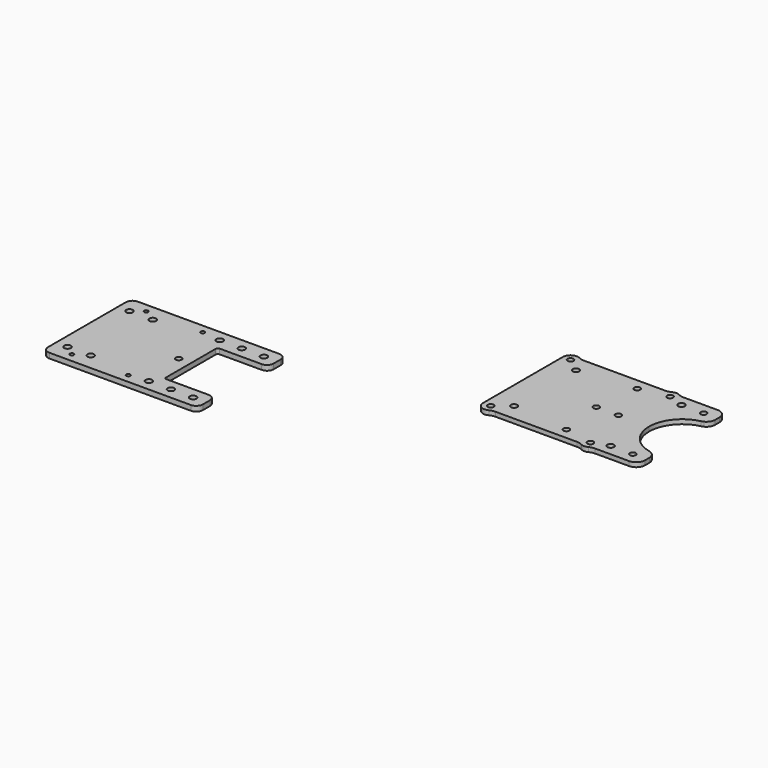
from build123d import *

# Parameters (mm, degrees)
F0_R     = 0.9
F0_R_2   = 1.5
F0_R_3   = 1.35
F1_DEPTH = 2.3
F2_R     = 1.35
F2_R_2   = 1.45
F2_R_3   = 1.5
F3_DEPTH = 2


with BuildPart() as f1:
    # F0 (on Top) → F1 (new body)
    with BuildSketch(Plane.XY):
        with BuildLine():
            ThreePointArc((-153.8714951198, 97.2304750681), (-154.7501747763, 99.3517954117), (-156.8714951198, 100.2304750681))
            Line((-156.8714951198, 100.2304750681), (-220.8714951198, 100.2304750681))
            ThreePointArc((-220.8714951198, 100.2304750681), (-222.9928154634, 99.3517954117), (-223.8714951198, 97.2304750681))
            Line((-223.8714951198, 97.2304750681), (-223.8714951198, 53.2304750681))
            ThreePointArc((-223.8714951198, 53.2304750681), (-222.9928154634, 51.1091547245), (-220.8714951198, 50.2304750681))
            Line((-220.8714951198, 50.2304750681), (-156.8714951198, 50.2304750681))
            ThreePointArc((-156.8714951198, 50.2304750681), (-154.7501747763, 51.1091547245), (-153.8714951198, 53.2304750681))
            Line((-153.8714951198, 53.2304750681), (-153.8714951198, 57.2304750681))
            ThreePointArc((-153.8714951198, 57.2304750681), (-154.7501747763, 59.3517954117), (-156.8714951198, 60.2304750681))
            Line((-156.8714951198, 60.2304750681), (-175.8714951198, 60.2304750681))
            ThreePointArc((-175.8714951198, 60.2304750681), (-176.578601901, 60.5233682869), (-176.8714951198, 61.2304750681))
            Line((-176.8714951198, 61.2304750681), (-176.8714951198, 75.2304750681))
            Line((-176.8714951198, 75.2304750681), (-176.8714951198, 89.2304750681))
            ThreePointArc((-176.8714951198, 89.2304750681), (-176.578601901, 89.9375818493), (-175.8714951198, 90.2304750681))
            Line((-175.8714951198, 90.2304750681), (-156.8714951198, 90.2304750681))
            ThreePointArc((-156.8714951198, 90.2304750681), (-154.7501747763, 91.1091547245), (-153.8714951198, 93.2304750681))
            Line((-153.8714951198, 93.2304750681), (-153.8714951198, 97.2304750681))
        make_face()
        with Locations((-213.8714951198, 54.2304750681)):
            Circle(F0_R, mode=Mode.SUBTRACT)
        with Locations((-221.3714951198, 61.9804750681)):
            Circle(F0_R, mode=Mode.SUBTRACT)
        with Locations((-218.6214951198, 57.7304750681)):
            Circle(F0_R_2, mode=Mode.SUBTRACT)
        with Locations((-208.1214951198, 57.7304750681)):
            Circle(F0_R_2, mode=Mode.SUBTRACT)
        with Locations((-188.3714951198, 54.2304750681)):
            Circle(F0_R, mode=Mode.SUBTRACT)
        with Locations((-179.8714951198, 55.2304750681)):
            Circle(F0_R_2, mode=Mode.SUBTRACT)
        with Locations((-179.3714951198, 61.9804750681)):
            Circle(F0_R, mode=Mode.SUBTRACT)
        with Locations((-169.8714951198, 55.2304750681)):
            Circle(F0_R_2, mode=Mode.SUBTRACT)
        with Locations((-159.8714951198, 55.2304750681)):
            Circle(F0_R_2, mode=Mode.SUBTRACT)
        with Locations((-220.5214951198, 75.2304750681)):
            Circle(F0_R_3, mode=Mode.SUBTRACT)
        with Locations((-221.3714951198, 87.4804750681)):
            Circle(F0_R, mode=Mode.SUBTRACT)
        with Locations((-218.6214951198, 92.7304750681)):
            Circle(F0_R_2, mode=Mode.SUBTRACT)
        with Locations((-213.8714951198, 96.2304750681)):
            Circle(F0_R, mode=Mode.SUBTRACT)
        with Locations((-208.1214951198, 92.7304750681)):
            Circle(F0_R_2, mode=Mode.SUBTRACT)
        with Locations((-182.3714951198, 75.2304750681)):
            Circle(F0_R_3, mode=Mode.SUBTRACT)
        with Locations((-179.3714951198, 87.4804750681)):
            Circle(F0_R, mode=Mode.SUBTRACT)
        with Locations((-188.3714951198, 96.2304750681)):
            Circle(F0_R, mode=Mode.SUBTRACT)
        with Locations((-179.8714951198, 95.2304750681)):
            Circle(F0_R_2, mode=Mode.SUBTRACT)
        with Locations((-169.8714951198, 95.2304750681)):
            Circle(F0_R_2, mode=Mode.SUBTRACT)
        with Locations((-159.8714951198, 95.2304750681)):
            Circle(F0_R_2, mode=Mode.SUBTRACT)
        with BuildLine():
            ThreePointArc((-153.8714951198, 97.2304750681), (-154.7501747763, 99.3517954117), (-156.8714951198, 100.2304750681))
            Line((-156.8714951198, 100.2304750681), (-220.8714951198, 100.2304750681))
            ThreePointArc((-220.8714951198, 100.2304750681), (-222.9928154634, 99.3517954117), (-223.8714951198, 97.2304750681))
            Line((-223.8714951198, 97.2304750681), (-223.8714951198, 53.2304750681))
            ThreePointArc((-223.8714951198, 53.2304750681), (-222.9928154634, 51.1091547245), (-220.8714951198, 50.2304750681))
            Line((-220.8714951198, 50.2304750681), (-156.8714951198, 50.2304750681))
            ThreePointArc((-156.8714951198, 50.2304750681), (-154.7501747763, 51.1091547245), (-153.8714951198, 53.2304750681))
            Line((-153.8714951198, 53.2304750681), (-153.8714951198, 57.2304750681))
            ThreePointArc((-153.8714951198, 57.2304750681), (-154.7501747763, 59.3517954117), (-156.8714951198, 60.2304750681))
            Line((-156.8714951198, 60.2304750681), (-175.8714951198, 60.2304750681))
            ThreePointArc((-175.8714951198, 60.2304750681), (-176.578601901, 60.5233682869), (-176.8714951198, 61.2304750681))
            Line((-176.8714951198, 61.2304750681), (-176.8714951198, 75.2304750681))
            Line((-176.8714951198, 75.2304750681), (-176.8714951198, 89.2304750681))
            ThreePointArc((-176.8714951198, 89.2304750681), (-176.578601901, 89.9375818493), (-175.8714951198, 90.2304750681))
            Line((-175.8714951198, 90.2304750681), (-156.8714951198, 90.2304750681))
            ThreePointArc((-156.8714951198, 90.2304750681), (-154.7501747763, 91.1091547245), (-153.8714951198, 93.2304750681))
            Line((-153.8714951198, 93.2304750681), (-153.8714951198, 97.2304750681))
        make_face()
        with Locations((-213.8714951198, 54.2304750681)):
            Circle(F0_R, mode=Mode.SUBTRACT)
        with Locations((-221.3714951198, 61.9804750681)):
            Circle(F0_R, mode=Mode.SUBTRACT)
        with Locations((-218.6214951198, 57.7304750681)):
            Circle(F0_R_2, mode=Mode.SUBTRACT)
        with Locations((-208.1214951198, 57.7304750681)):
            Circle(F0_R_2, mode=Mode.SUBTRACT)
        with Locations((-188.3714951198, 54.2304750681)):
            Circle(F0_R, mode=Mode.SUBTRACT)
        with Locations((-179.8714951198, 55.2304750681)):
            Circle(F0_R_2, mode=Mode.SUBTRACT)
        with Locations((-179.3714951198, 61.9804750681)):
            Circle(F0_R, mode=Mode.SUBTRACT)
        with Locations((-169.8714951198, 55.2304750681)):
            Circle(F0_R_2, mode=Mode.SUBTRACT)
        with Locations((-159.8714951198, 55.2304750681)):
            Circle(F0_R_2, mode=Mode.SUBTRACT)
        with Locations((-220.5214951198, 75.2304750681)):
            Circle(F0_R_3, mode=Mode.SUBTRACT)
        with Locations((-221.3714951198, 87.4804750681)):
            Circle(F0_R, mode=Mode.SUBTRACT)
        with Locations((-218.6214951198, 92.7304750681)):
            Circle(F0_R_2, mode=Mode.SUBTRACT)
        with Locations((-213.8714951198, 96.2304750681)):
            Circle(F0_R, mode=Mode.SUBTRACT)
        with Locations((-208.1214951198, 92.7304750681)):
            Circle(F0_R_2, mode=Mode.SUBTRACT)
        with Locations((-182.3714951198, 75.2304750681)):
            Circle(F0_R_3, mode=Mode.SUBTRACT)
        with Locations((-179.3714951198, 87.4804750681)):
            Circle(F0_R, mode=Mode.SUBTRACT)
        with Locations((-188.3714951198, 96.2304750681)):
            Circle(F0_R, mode=Mode.SUBTRACT)
        with Locations((-179.8714951198, 95.2304750681)):
            Circle(F0_R_2, mode=Mode.SUBTRACT)
        with Locations((-169.8714951198, 95.2304750681)):
            Circle(F0_R_2, mode=Mode.SUBTRACT)
        with Locations((-159.8714951198, 95.2304750681)):
            Circle(F0_R_2, mode=Mode.SUBTRACT)
        with BuildLine():
            ThreePointArc((-153.8714951198, 97.2304750681), (-154.7501747763, 99.3517954117), (-156.8714951198, 100.2304750681))
            Line((-156.8714951198, 100.2304750681), (-220.8714951198, 100.2304750681))
            ThreePointArc((-220.8714951198, 100.2304750681), (-222.9928154634, 99.3517954117), (-223.8714951198, 97.2304750681))
            Line((-223.8714951198, 97.2304750681), (-223.8714951198, 53.2304750681))
            ThreePointArc((-223.8714951198, 53.2304750681), (-222.9928154634, 51.1091547245), (-220.8714951198, 50.2304750681))
            Line((-220.8714951198, 50.2304750681), (-156.8714951198, 50.2304750681))
            ThreePointArc((-156.8714951198, 50.2304750681), (-154.7501747763, 51.1091547245), (-153.8714951198, 53.2304750681))
            Line((-153.8714951198, 53.2304750681), (-153.8714951198, 57.2304750681))
            ThreePointArc((-153.8714951198, 57.2304750681), (-154.7501747763, 59.3517954117), (-156.8714951198, 60.2304750681))
            Line((-156.8714951198, 60.2304750681), (-175.8714951198, 60.2304750681))
            ThreePointArc((-175.8714951198, 60.2304750681), (-176.578601901, 60.5233682869), (-176.8714951198, 61.2304750681))
            Line((-176.8714951198, 61.2304750681), (-176.8714951198, 75.2304750681))
            Line((-176.8714951198, 75.2304750681), (-176.8714951198, 89.2304750681))
            ThreePointArc((-176.8714951198, 89.2304750681), (-176.578601901, 89.9375818493), (-175.8714951198, 90.2304750681))
            Line((-175.8714951198, 90.2304750681), (-156.8714951198, 90.2304750681))
            ThreePointArc((-156.8714951198, 90.2304750681), (-154.7501747763, 91.1091547245), (-153.8714951198, 93.2304750681))
            Line((-153.8714951198, 93.2304750681), (-153.8714951198, 97.2304750681))
        make_face()
        with Locations((-213.8714951198, 54.2304750681)):
            Circle(F0_R, mode=Mode.SUBTRACT)
        with Locations((-221.3714951198, 61.9804750681)):
            Circle(F0_R, mode=Mode.SUBTRACT)
        with Locations((-218.6214951198, 57.7304750681)):
            Circle(F0_R_2, mode=Mode.SUBTRACT)
        with Locations((-208.1214951198, 57.7304750681)):
            Circle(F0_R_2, mode=Mode.SUBTRACT)
        with Locations((-188.3714951198, 54.2304750681)):
            Circle(F0_R, mode=Mode.SUBTRACT)
        with Locations((-179.8714951198, 55.2304750681)):
            Circle(F0_R_2, mode=Mode.SUBTRACT)
        with Locations((-179.3714951198, 61.9804750681)):
            Circle(F0_R, mode=Mode.SUBTRACT)
        with Locations((-169.8714951198, 55.2304750681)):
            Circle(F0_R_2, mode=Mode.SUBTRACT)
        with Locations((-159.8714951198, 55.2304750681)):
            Circle(F0_R_2, mode=Mode.SUBTRACT)
        with Locations((-220.5214951198, 75.2304750681)):
            Circle(F0_R_3, mode=Mode.SUBTRACT)
        with Locations((-221.3714951198, 87.4804750681)):
            Circle(F0_R, mode=Mode.SUBTRACT)
        with Locations((-218.6214951198, 92.7304750681)):
            Circle(F0_R_2, mode=Mode.SUBTRACT)
        with Locations((-213.8714951198, 96.2304750681)):
            Circle(F0_R, mode=Mode.SUBTRACT)
        with Locations((-208.1214951198, 92.7304750681)):
            Circle(F0_R_2, mode=Mode.SUBTRACT)
        with Locations((-182.3714951198, 75.2304750681)):
            Circle(F0_R_3, mode=Mode.SUBTRACT)
        with Locations((-179.3714951198, 87.4804750681)):
            Circle(F0_R, mode=Mode.SUBTRACT)
        with Locations((-188.3714951198, 96.2304750681)):
            Circle(F0_R, mode=Mode.SUBTRACT)
        with Locations((-179.8714951198, 95.2304750681)):
            Circle(F0_R_2, mode=Mode.SUBTRACT)
        with Locations((-169.8714951198, 95.2304750681)):
            Circle(F0_R_2, mode=Mode.SUBTRACT)
        with Locations((-159.8714951198, 95.2304750681)):
            Circle(F0_R_2, mode=Mode.SUBTRACT)
        with BuildLine():
            ThreePointArc((-153.8714951198, 97.2304750681), (-154.7501747763, 99.3517954117), (-156.8714951198, 100.2304750681))
            Line((-156.8714951198, 100.2304750681), (-220.8714951198, 100.2304750681))
            ThreePointArc((-220.8714951198, 100.2304750681), (-222.9928154634, 99.3517954117), (-223.8714951198, 97.2304750681))
            Line((-223.8714951198, 97.2304750681), (-223.8714951198, 53.2304750681))
            ThreePointArc((-223.8714951198, 53.2304750681), (-222.9928154634, 51.1091547245), (-220.8714951198, 50.2304750681))
            Line((-220.8714951198, 50.2304750681), (-156.8714951198, 50.2304750681))
            ThreePointArc((-156.8714951198, 50.2304750681), (-154.7501747763, 51.1091547245), (-153.8714951198, 53.2304750681))
            Line((-153.8714951198, 53.2304750681), (-153.8714951198, 57.2304750681))
            ThreePointArc((-153.8714951198, 57.2304750681), (-154.7501747763, 59.3517954117), (-156.8714951198, 60.2304750681))
            Line((-156.8714951198, 60.2304750681), (-175.8714951198, 60.2304750681))
            ThreePointArc((-175.8714951198, 60.2304750681), (-176.578601901, 60.5233682869), (-176.8714951198, 61.2304750681))
            Line((-176.8714951198, 61.2304750681), (-176.8714951198, 75.2304750681))
            Line((-176.8714951198, 75.2304750681), (-176.8714951198, 89.2304750681))
            ThreePointArc((-176.8714951198, 89.2304750681), (-176.578601901, 89.9375818493), (-175.8714951198, 90.2304750681))
            Line((-175.8714951198, 90.2304750681), (-156.8714951198, 90.2304750681))
            ThreePointArc((-156.8714951198, 90.2304750681), (-154.7501747763, 91.1091547245), (-153.8714951198, 93.2304750681))
            Line((-153.8714951198, 93.2304750681), (-153.8714951198, 97.2304750681))
        make_face()
        with Locations((-213.8714951198, 54.2304750681)):
            Circle(F0_R, mode=Mode.SUBTRACT)
        with Locations((-221.3714951198, 61.9804750681)):
            Circle(F0_R, mode=Mode.SUBTRACT)
        with Locations((-218.6214951198, 57.7304750681)):
            Circle(F0_R_2, mode=Mode.SUBTRACT)
        with Locations((-208.1214951198, 57.7304750681)):
            Circle(F0_R_2, mode=Mode.SUBTRACT)
        with Locations((-188.3714951198, 54.2304750681)):
            Circle(F0_R, mode=Mode.SUBTRACT)
        with Locations((-179.8714951198, 55.2304750681)):
            Circle(F0_R_2, mode=Mode.SUBTRACT)
        with Locations((-179.3714951198, 61.9804750681)):
            Circle(F0_R, mode=Mode.SUBTRACT)
        with Locations((-169.8714951198, 55.2304750681)):
            Circle(F0_R_2, mode=Mode.SUBTRACT)
        with Locations((-159.8714951198, 55.2304750681)):
            Circle(F0_R_2, mode=Mode.SUBTRACT)
        with Locations((-220.5214951198, 75.2304750681)):
            Circle(F0_R_3, mode=Mode.SUBTRACT)
        with Locations((-221.3714951198, 87.4804750681)):
            Circle(F0_R, mode=Mode.SUBTRACT)
        with Locations((-218.6214951198, 92.7304750681)):
            Circle(F0_R_2, mode=Mode.SUBTRACT)
        with Locations((-213.8714951198, 96.2304750681)):
            Circle(F0_R, mode=Mode.SUBTRACT)
        with Locations((-208.1214951198, 92.7304750681)):
            Circle(F0_R_2, mode=Mode.SUBTRACT)
        with Locations((-182.3714951198, 75.2304750681)):
            Circle(F0_R_3, mode=Mode.SUBTRACT)
        with Locations((-179.3714951198, 87.4804750681)):
            Circle(F0_R, mode=Mode.SUBTRACT)
        with Locations((-188.3714951198, 96.2304750681)):
            Circle(F0_R, mode=Mode.SUBTRACT)
        with Locations((-179.8714951198, 95.2304750681)):
            Circle(F0_R_2, mode=Mode.SUBTRACT)
        with Locations((-169.8714951198, 95.2304750681)):
            Circle(F0_R_2, mode=Mode.SUBTRACT)
        with Locations((-159.8714951198, 95.2304750681)):
            Circle(F0_R_2, mode=Mode.SUBTRACT)
        with BuildLine():
            ThreePointArc((-153.8714951198, 97.2304750681), (-154.7501747763, 99.3517954117), (-156.8714951198, 100.2304750681))
            Line((-156.8714951198, 100.2304750681), (-220.8714951198, 100.2304750681))
            ThreePointArc((-220.8714951198, 100.2304750681), (-222.9928154634, 99.3517954117), (-223.8714951198, 97.2304750681))
            Line((-223.8714951198, 97.2304750681), (-223.8714951198, 53.2304750681))
            ThreePointArc((-223.8714951198, 53.2304750681), (-222.9928154634, 51.1091547245), (-220.8714951198, 50.2304750681))
            Line((-220.8714951198, 50.2304750681), (-156.8714951198, 50.2304750681))
            ThreePointArc((-156.8714951198, 50.2304750681), (-154.7501747763, 51.1091547245), (-153.8714951198, 53.2304750681))
            Line((-153.8714951198, 53.2304750681), (-153.8714951198, 57.2304750681))
            ThreePointArc((-153.8714951198, 57.2304750681), (-154.7501747763, 59.3517954117), (-156.8714951198, 60.2304750681))
            Line((-156.8714951198, 60.2304750681), (-175.8714951198, 60.2304750681))
            ThreePointArc((-175.8714951198, 60.2304750681), (-176.578601901, 60.5233682869), (-176.8714951198, 61.2304750681))
            Line((-176.8714951198, 61.2304750681), (-176.8714951198, 75.2304750681))
            Line((-176.8714951198, 75.2304750681), (-176.8714951198, 89.2304750681))
            ThreePointArc((-176.8714951198, 89.2304750681), (-176.578601901, 89.9375818493), (-175.8714951198, 90.2304750681))
            Line((-175.8714951198, 90.2304750681), (-156.8714951198, 90.2304750681))
            ThreePointArc((-156.8714951198, 90.2304750681), (-154.7501747763, 91.1091547245), (-153.8714951198, 93.2304750681))
            Line((-153.8714951198, 93.2304750681), (-153.8714951198, 97.2304750681))
        make_face()
        with Locations((-213.8714951198, 54.2304750681)):
            Circle(F0_R, mode=Mode.SUBTRACT)
        with Locations((-221.3714951198, 61.9804750681)):
            Circle(F0_R, mode=Mode.SUBTRACT)
        with Locations((-218.6214951198, 57.7304750681)):
            Circle(F0_R_2, mode=Mode.SUBTRACT)
        with Locations((-208.1214951198, 57.7304750681)):
            Circle(F0_R_2, mode=Mode.SUBTRACT)
        with Locations((-188.3714951198, 54.2304750681)):
            Circle(F0_R, mode=Mode.SUBTRACT)
        with Locations((-179.8714951198, 55.2304750681)):
            Circle(F0_R_2, mode=Mode.SUBTRACT)
        with Locations((-179.3714951198, 61.9804750681)):
            Circle(F0_R, mode=Mode.SUBTRACT)
        with Locations((-169.8714951198, 55.2304750681)):
            Circle(F0_R_2, mode=Mode.SUBTRACT)
        with Locations((-159.8714951198, 55.2304750681)):
            Circle(F0_R_2, mode=Mode.SUBTRACT)
        with Locations((-220.5214951198, 75.2304750681)):
            Circle(F0_R_3, mode=Mode.SUBTRACT)
        with Locations((-221.3714951198, 87.4804750681)):
            Circle(F0_R, mode=Mode.SUBTRACT)
        with Locations((-218.6214951198, 92.7304750681)):
            Circle(F0_R_2, mode=Mode.SUBTRACT)
        with Locations((-213.8714951198, 96.2304750681)):
            Circle(F0_R, mode=Mode.SUBTRACT)
        with Locations((-208.1214951198, 92.7304750681)):
            Circle(F0_R_2, mode=Mode.SUBTRACT)
        with Locations((-182.3714951198, 75.2304750681)):
            Circle(F0_R_3, mode=Mode.SUBTRACT)
        with Locations((-179.3714951198, 87.4804750681)):
            Circle(F0_R, mode=Mode.SUBTRACT)
        with Locations((-188.3714951198, 96.2304750681)):
            Circle(F0_R, mode=Mode.SUBTRACT)
        with Locations((-179.8714951198, 95.2304750681)):
            Circle(F0_R_2, mode=Mode.SUBTRACT)
        with Locations((-169.8714951198, 95.2304750681)):
            Circle(F0_R_2, mode=Mode.SUBTRACT)
        with Locations((-159.8714951198, 95.2304750681)):
            Circle(F0_R_2, mode=Mode.SUBTRACT)
        with BuildLine():
            ThreePointArc((-153.8714951198, 97.2304750681), (-154.7501747763, 99.3517954117), (-156.8714951198, 100.2304750681))
            Line((-156.8714951198, 100.2304750681), (-220.8714951198, 100.2304750681))
            ThreePointArc((-220.8714951198, 100.2304750681), (-222.9928154634, 99.3517954117), (-223.8714951198, 97.2304750681))
            Line((-223.8714951198, 97.2304750681), (-223.8714951198, 53.2304750681))
            ThreePointArc((-223.8714951198, 53.2304750681), (-222.9928154634, 51.1091547245), (-220.8714951198, 50.2304750681))
            Line((-220.8714951198, 50.2304750681), (-156.8714951198, 50.2304750681))
            ThreePointArc((-156.8714951198, 50.2304750681), (-154.7501747763, 51.1091547245), (-153.8714951198, 53.2304750681))
            Line((-153.8714951198, 53.2304750681), (-153.8714951198, 57.2304750681))
            ThreePointArc((-153.8714951198, 57.2304750681), (-154.7501747763, 59.3517954117), (-156.8714951198, 60.2304750681))
            Line((-156.8714951198, 60.2304750681), (-175.8714951198, 60.2304750681))
            ThreePointArc((-175.8714951198, 60.2304750681), (-176.578601901, 60.5233682869), (-176.8714951198, 61.2304750681))
            Line((-176.8714951198, 61.2304750681), (-176.8714951198, 75.2304750681))
            Line((-176.8714951198, 75.2304750681), (-176.8714951198, 89.2304750681))
            ThreePointArc((-176.8714951198, 89.2304750681), (-176.578601901, 89.9375818493), (-175.8714951198, 90.2304750681))
            Line((-175.8714951198, 90.2304750681), (-156.8714951198, 90.2304750681))
            ThreePointArc((-156.8714951198, 90.2304750681), (-154.7501747763, 91.1091547245), (-153.8714951198, 93.2304750681))
            Line((-153.8714951198, 93.2304750681), (-153.8714951198, 97.2304750681))
        make_face()
        with Locations((-213.8714951198, 54.2304750681)):
            Circle(F0_R, mode=Mode.SUBTRACT)
        with Locations((-221.3714951198, 61.9804750681)):
            Circle(F0_R, mode=Mode.SUBTRACT)
        with Locations((-218.6214951198, 57.7304750681)):
            Circle(F0_R_2, mode=Mode.SUBTRACT)
        with Locations((-208.1214951198, 57.7304750681)):
            Circle(F0_R_2, mode=Mode.SUBTRACT)
        with Locations((-188.3714951198, 54.2304750681)):
            Circle(F0_R, mode=Mode.SUBTRACT)
        with Locations((-179.8714951198, 55.2304750681)):
            Circle(F0_R_2, mode=Mode.SUBTRACT)
        with Locations((-179.3714951198, 61.9804750681)):
            Circle(F0_R, mode=Mode.SUBTRACT)
        with Locations((-169.8714951198, 55.2304750681)):
            Circle(F0_R_2, mode=Mode.SUBTRACT)
        with Locations((-159.8714951198, 55.2304750681)):
            Circle(F0_R_2, mode=Mode.SUBTRACT)
        with Locations((-220.5214951198, 75.2304750681)):
            Circle(F0_R_3, mode=Mode.SUBTRACT)
        with Locations((-221.3714951198, 87.4804750681)):
            Circle(F0_R, mode=Mode.SUBTRACT)
        with Locations((-218.6214951198, 92.7304750681)):
            Circle(F0_R_2, mode=Mode.SUBTRACT)
        with Locations((-213.8714951198, 96.2304750681)):
            Circle(F0_R, mode=Mode.SUBTRACT)
        with Locations((-208.1214951198, 92.7304750681)):
            Circle(F0_R_2, mode=Mode.SUBTRACT)
        with Locations((-182.3714951198, 75.2304750681)):
            Circle(F0_R_3, mode=Mode.SUBTRACT)
        with Locations((-179.3714951198, 87.4804750681)):
            Circle(F0_R, mode=Mode.SUBTRACT)
        with Locations((-188.3714951198, 96.2304750681)):
            Circle(F0_R, mode=Mode.SUBTRACT)
        with Locations((-179.8714951198, 95.2304750681)):
            Circle(F0_R_2, mode=Mode.SUBTRACT)
        with Locations((-169.8714951198, 95.2304750681)):
            Circle(F0_R_2, mode=Mode.SUBTRACT)
        with Locations((-159.8714951198, 95.2304750681)):
            Circle(F0_R_2, mode=Mode.SUBTRACT)
        with BuildLine():
            ThreePointArc((-153.8714951198, 97.2304750681), (-154.7501747763, 99.3517954117), (-156.8714951198, 100.2304750681))
            Line((-156.8714951198, 100.2304750681), (-220.8714951198, 100.2304750681))
            ThreePointArc((-220.8714951198, 100.2304750681), (-222.9928154634, 99.3517954117), (-223.8714951198, 97.2304750681))
            Line((-223.8714951198, 97.2304750681), (-223.8714951198, 53.2304750681))
            ThreePointArc((-223.8714951198, 53.2304750681), (-222.9928154634, 51.1091547245), (-220.8714951198, 50.2304750681))
            Line((-220.8714951198, 50.2304750681), (-156.8714951198, 50.2304750681))
            ThreePointArc((-156.8714951198, 50.2304750681), (-154.7501747763, 51.1091547245), (-153.8714951198, 53.2304750681))
            Line((-153.8714951198, 53.2304750681), (-153.8714951198, 57.2304750681))
            ThreePointArc((-153.8714951198, 57.2304750681), (-154.7501747763, 59.3517954117), (-156.8714951198, 60.2304750681))
            Line((-156.8714951198, 60.2304750681), (-175.8714951198, 60.2304750681))
            ThreePointArc((-175.8714951198, 60.2304750681), (-176.578601901, 60.5233682869), (-176.8714951198, 61.2304750681))
            Line((-176.8714951198, 61.2304750681), (-176.8714951198, 75.2304750681))
            Line((-176.8714951198, 75.2304750681), (-176.8714951198, 89.2304750681))
            ThreePointArc((-176.8714951198, 89.2304750681), (-176.578601901, 89.9375818493), (-175.8714951198, 90.2304750681))
            Line((-175.8714951198, 90.2304750681), (-156.8714951198, 90.2304750681))
            ThreePointArc((-156.8714951198, 90.2304750681), (-154.7501747763, 91.1091547245), (-153.8714951198, 93.2304750681))
            Line((-153.8714951198, 93.2304750681), (-153.8714951198, 97.2304750681))
        make_face()
        with Locations((-213.8714951198, 54.2304750681)):
            Circle(F0_R, mode=Mode.SUBTRACT)
        with Locations((-221.3714951198, 61.9804750681)):
            Circle(F0_R, mode=Mode.SUBTRACT)
        with Locations((-218.6214951198, 57.7304750681)):
            Circle(F0_R_2, mode=Mode.SUBTRACT)
        with Locations((-208.1214951198, 57.7304750681)):
            Circle(F0_R_2, mode=Mode.SUBTRACT)
        with Locations((-188.3714951198, 54.2304750681)):
            Circle(F0_R, mode=Mode.SUBTRACT)
        with Locations((-179.8714951198, 55.2304750681)):
            Circle(F0_R_2, mode=Mode.SUBTRACT)
        with Locations((-179.3714951198, 61.9804750681)):
            Circle(F0_R, mode=Mode.SUBTRACT)
        with Locations((-169.8714951198, 55.2304750681)):
            Circle(F0_R_2, mode=Mode.SUBTRACT)
        with Locations((-159.8714951198, 55.2304750681)):
            Circle(F0_R_2, mode=Mode.SUBTRACT)
        with Locations((-220.5214951198, 75.2304750681)):
            Circle(F0_R_3, mode=Mode.SUBTRACT)
        with Locations((-221.3714951198, 87.4804750681)):
            Circle(F0_R, mode=Mode.SUBTRACT)
        with Locations((-218.6214951198, 92.7304750681)):
            Circle(F0_R_2, mode=Mode.SUBTRACT)
        with Locations((-213.8714951198, 96.2304750681)):
            Circle(F0_R, mode=Mode.SUBTRACT)
        with Locations((-208.1214951198, 92.7304750681)):
            Circle(F0_R_2, mode=Mode.SUBTRACT)
        with Locations((-182.3714951198, 75.2304750681)):
            Circle(F0_R_3, mode=Mode.SUBTRACT)
        with Locations((-179.3714951198, 87.4804750681)):
            Circle(F0_R, mode=Mode.SUBTRACT)
        with Locations((-188.3714951198, 96.2304750681)):
            Circle(F0_R, mode=Mode.SUBTRACT)
        with Locations((-179.8714951198, 95.2304750681)):
            Circle(F0_R_2, mode=Mode.SUBTRACT)
        with Locations((-169.8714951198, 95.2304750681)):
            Circle(F0_R_2, mode=Mode.SUBTRACT)
        with Locations((-159.8714951198, 95.2304750681)):
            Circle(F0_R_2, mode=Mode.SUBTRACT)
        with Locations((-220.5214951198, 75.2304750681)):
            Circle(F0_R_3)
        with Locations((-221.3714951198, 87.4804750681)):
            Circle(F0_R)
        with Locations((-179.3714951198, 87.4804750681)):
            Circle(F0_R)
        with Locations((-179.3714951198, 61.9804750681)):
            Circle(F0_R)
        with Locations((-221.3714951198, 61.9804750681)):
            Circle(F0_R)
    extrude(amount=F1_DEPTH)


with BuildPart() as f3:
    # F2 (on Top) → F3 (new body)
    with BuildSketch(Plane.XY):
        with BuildLine():
            Line((-20.7106234777, 153.8184928892), (-20.7106234777, 138.8184928892))
            ThreePointArc((-20.7106234777, 138.8184928892), (-17.3804225559, 148.2427058257), (-8.8685182145, 153.4823157479))
            ThreePointArc((-8.8685182145, 153.4823157479), (-8.3809520708, 153.6201396568), (-7.9147201868, 153.8184928892))
            Line((-7.9147201868, 153.8184928892), (-20.7106234777, 153.8184928892))
        make_face()
        with BuildLine():
            ThreePointArc((-8.8685182145, 124.1546700305), (-17.3804225559, 129.3942799526), (-20.7106234777, 138.8184928892))
            Line((-20.7106234777, 138.8184928892), (-20.7106234777, 123.8184928892))
            Line((-20.7106234777, 123.8184928892), (-7.9147201868, 123.8184928892))
            ThreePointArc((-7.9147201868, 123.8184928892), (-8.3809520708, 124.0168461216), (-8.8685182145, 124.1546700305))
        make_face()
        with BuildLine():
            ThreePointArc((-72.5635647603, 164.4067282399), (-74.7080961851, 164.7829583466), (-76.6601132205, 163.8184928892))
            Line((-76.6601132205, 163.8184928892), (-71.7611337349, 163.8184928892))
            ThreePointArc((-71.7611337349, 163.8184928892), (-72.1413403824, 164.1412694428), (-72.5635647603, 164.4067282399))
        make_face()
        with BuildLine():
            Line((-71.7611337349, 113.8184928892), (-76.6601132205, 113.8184928892))
            ThreePointArc((-76.6601132205, 113.8184928892), (-74.7080962133, 112.8540274359), (-72.5635648106, 113.2302575116))
            ThreePointArc((-72.5635648106, 113.2302575116), (-72.1413404054, 113.4957163187), (-71.7611337349, 113.8184928892))
        make_face()
        with BuildLine():
            ThreePointArc((-72.5635647603, 164.4067282399), (-72.1413403824, 164.1412694428), (-71.7611337349, 163.8184928892))
            Line((-71.7611337349, 163.8184928892), (-70.2106234777, 163.8184928892))
            ThreePointArc((-70.2106234777, 163.8184928892), (-71.4233016612, 163.9677804031), (-72.5635647603, 164.4067282399))
        make_face()
        with BuildLine():
            ThreePointArc((-30.8576820469, 164.406728319), (-31.9979452127, 163.9677804234), (-33.2106234777, 163.8184928892))
            Line((-33.2106234777, 163.8184928892), (-31.6601132205, 163.8184928892))
            ThreePointArc((-31.6601132205, 163.8184928892), (-31.2799065053, 164.1412694924), (-30.8576820469, 164.406728319))
        make_face()
        with BuildLine():
            ThreePointArc((-30.8576820469, 164.406728319), (-31.2799065053, 164.1412694924), (-31.6601132205, 163.8184928892))
            Line((-31.6601132205, 163.8184928892), (-26.7611337349, 163.8184928892))
            ThreePointArc((-26.7611337349, 163.8184928892), (-27.1413402705, 164.1412693607), (-27.5635645155, 164.4067281093))
            ThreePointArc((-27.5635645155, 164.4067281093), (-29.2106232549, 164.8184928892), (-30.8576820469, 164.406728319))
        make_face()
        with BuildLine():
            ThreePointArc((-27.5635645155, 164.4067281093), (-27.1413402705, 164.1412693607), (-26.7611337349, 163.8184928892))
            Line((-26.7611337349, 163.8184928892), (-25.2106235837, 163.8184928892))
            ThreePointArc((-25.2106235837, 163.8184928892), (-26.423301578, 163.9677803823), (-27.5635645155, 164.4067281093))
        make_face()
        with BuildLine():
            Line((-25.2106234777, 113.8184928892), (-26.7611337349, 113.8184928892))
            ThreePointArc((-26.7611337349, 113.8184928892), (-27.1413403262, 113.4957163768), (-27.5635646374, 113.230257604))
            ThreePointArc((-27.5635646374, 113.230257604), (-26.4233015936, 113.6692053922), (-25.2106234777, 113.8184928892))
        make_face()
        with BuildLine():
            Line((-26.7611337349, 113.8184928892), (-31.6601132205, 113.8184928892))
            ThreePointArc((-31.6601132205, 113.8184928892), (-31.2799066149, 113.4957163663), (-30.8576822866, 113.2302575873))
            ThreePointArc((-30.8576822866, 113.2302575873), (-29.2106234599, 112.8184928892), (-27.5635646374, 113.230257604))
            ThreePointArc((-27.5635646374, 113.230257604), (-27.1413403262, 113.4957163768), (-26.7611337349, 113.8184928892))
        make_face()
        with BuildLine():
            Line((-31.6601132205, 113.8184928892), (-33.2106234777, 113.8184928892))
            ThreePointArc((-33.2106234777, 113.8184928892), (-31.9979453445, 113.6692053879), (-30.8576822866, 113.2302575873))
            ThreePointArc((-30.8576822866, 113.2302575873), (-31.2799066149, 113.4957163663), (-31.6601132205, 113.8184928892))
        make_face()
        with BuildLine():
            Line((-70.2106234777, 113.8184928892), (-71.7611337349, 113.8184928892))
            ThreePointArc((-71.7611337349, 113.8184928892), (-72.1413404054, 113.4957163187), (-72.5635648106, 113.2302575116))
            ThreePointArc((-72.5635648106, 113.2302575116), (-71.4233016889, 113.6692053684), (-70.2106234777, 113.8184928892))
        make_face()
        with BuildLine():
            Line((-71.7611337349, 163.8184928892), (-76.6601132205, 163.8184928892))
            ThreePointArc((-76.6601132205, 163.8184928892), (-77.4373256719, 162.67436639), (-77.7106234777, 161.3184928892))
            ThreePointArc((-77.7106234777, 161.3184928892), (-74.2106234777, 157.8184928892), (-70.7106234777, 161.3184928892))
            ThreePointArc((-70.7106234777, 161.3184928892), (-70.9839212835, 162.67436639), (-71.7611337349, 163.8184928892))
        make_face()
        with Locations((-74.2106234777, 161.3184928892)):
            Circle(F2_R, mode=Mode.SUBTRACT)
        with BuildLine():
            ThreePointArc((-70.7106234777, 116.3184928892), (-74.2106234777, 119.8184928892), (-77.7106234777, 116.3184928892))
            ThreePointArc((-77.7106234777, 116.3184928892), (-77.4373256719, 114.9626193884), (-76.6601132205, 113.8184928892))
            Line((-76.6601132205, 113.8184928892), (-71.7611337349, 113.8184928892))
            ThreePointArc((-71.7611337349, 113.8184928892), (-70.9839212835, 114.9626193884), (-70.7106234777, 116.3184928892))
        make_face()
        with Locations((-74.2106234777, 116.3184928892)):
            Circle(F2_R, mode=Mode.SUBTRACT)
        with BuildLine():
            ThreePointArc((-70.7106234777, 161.3184928892), (-74.2106234777, 157.8184928892), (-77.7106234777, 161.3184928892))
            Line((-77.7106234777, 161.3184928892), (-77.7106234777, 138.8184928892))
            Line((-77.7106234777, 138.8184928892), (-45.9106234777, 138.8184928892))
            ThreePointArc((-45.9106234777, 138.8184928892), (-44.5606234777, 140.1684928892), (-43.2106234777, 138.8184928892))
            Line((-43.2106234777, 138.8184928892), (-35.9106234777, 138.8184928892))
            ThreePointArc((-35.9106234777, 138.8184928892), (-34.5606234777, 140.1684928892), (-33.2106234777, 138.8184928892))
            Line((-33.2106234777, 138.8184928892), (-20.7106234777, 138.8184928892))
            Line((-20.7106234777, 138.8184928892), (-20.7106234777, 153.8184928892))
            Line((-20.7106234777, 153.8184928892), (-7.9147201868, 153.8184928892))
            ThreePointArc((-7.9147201868, 153.8184928892), (-6.3059492522, 155.2930986928), (-5.7106234777, 157.3926685102))
            Line((-5.7106234777, 157.3926685102), (-5.7106234777, 159.8184928892))
            ThreePointArc((-5.7106234777, 159.8184928892), (-6.8821963529, 162.6469200139), (-9.7106234777, 163.8184928892))
            Line((-9.7106234777, 163.8184928892), (-25.2106235837, 163.8184928892))
            Line((-25.2106235837, 163.8184928892), (-26.7611337349, 163.8184928892))
            ThreePointArc((-26.7611337349, 163.8184928892), (-25.9839212835, 162.67436639), (-25.7106234777, 161.3184928892))
            ThreePointArc((-25.7106234777, 161.3184928892), (-30.5664969785, 158.091790695), (-31.6601132205, 163.8184928892))
            Line((-31.6601132205, 163.8184928892), (-33.2106234777, 163.8184928892))
            Line((-33.2106234777, 163.8184928892), (-70.2106234777, 163.8184928892))
            Line((-70.2106234777, 163.8184928892), (-71.7611337349, 163.8184928892))
            ThreePointArc((-71.7611337349, 163.8184928892), (-70.9839212835, 162.67436639), (-70.7106234777, 161.3184928892))
        make_face()
        with Locations((-67.7106234777, 156.3184928892)):
            Circle(F2_R_2, mode=Mode.SUBTRACT)
        with Locations((-42.0606234777, 158.8184928892)):
            Circle(F2_R, mode=Mode.SUBTRACT)
        with Locations((-22.0606234777, 158.8184928892)):
            Circle(F2_R_3, mode=Mode.SUBTRACT)
        with Locations((-12.0606234777, 158.8184928892)):
            Circle(F2_R, mode=Mode.SUBTRACT)
        with BuildLine():
            Line((-45.9106234777, 138.8184928892), (-77.7106234777, 138.8184928892))
            Line((-77.7106234777, 138.8184928892), (-77.7106234777, 116.3184928892))
            ThreePointArc((-77.7106234777, 116.3184928892), (-74.2106234777, 119.8184928892), (-70.7106234777, 116.3184928892))
            ThreePointArc((-70.7106234777, 116.3184928892), (-70.9839212835, 114.9626193884), (-71.7611337349, 113.8184928892))
            Line((-71.7611337349, 113.8184928892), (-70.2106234777, 113.8184928892))
            Line((-70.2106234777, 113.8184928892), (-33.2106234777, 113.8184928892))
            Line((-33.2106234777, 113.8184928892), (-31.6601132205, 113.8184928892))
            ThreePointArc((-31.6601132205, 113.8184928892), (-30.5664969785, 119.5451950834), (-25.7106234777, 116.3184928892))
            ThreePointArc((-25.7106234777, 116.3184928892), (-25.9839212835, 114.9626193884), (-26.7611337349, 113.8184928892))
            Line((-26.7611337349, 113.8184928892), (-25.2106234777, 113.8184928892))
            Line((-25.2106234777, 113.8184928892), (-9.7106234777, 113.8184928892))
            ThreePointArc((-9.7106234777, 113.8184928892), (-6.8821963529, 114.9900657644), (-5.7106234777, 117.8184928892))
            Line((-5.7106234777, 117.8184928892), (-5.7106234777, 120.2443172682))
            ThreePointArc((-5.7106234777, 120.2443172682), (-6.3059492522, 122.3438870856), (-7.9147201868, 123.8184928892))
            Line((-7.9147201868, 123.8184928892), (-20.7106234777, 123.8184928892))
            Line((-20.7106234777, 123.8184928892), (-20.7106234777, 138.8184928892))
            Line((-20.7106234777, 138.8184928892), (-33.2106234777, 138.8184928892))
            ThreePointArc((-33.2106234777, 138.8184928892), (-34.5606234777, 137.4684928892), (-35.9106234777, 138.8184928892))
            Line((-35.9106234777, 138.8184928892), (-43.2106234777, 138.8184928892))
            ThreePointArc((-43.2106234777, 138.8184928892), (-44.5606234777, 137.4684928892), (-45.9106234777, 138.8184928892))
        make_face()
        with Locations((-42.0606234777, 118.8184928892)):
            Circle(F2_R, mode=Mode.SUBTRACT)
        with Locations((-67.7106234777, 121.3184928892)):
            Circle(F2_R_2, mode=Mode.SUBTRACT)
        with Locations((-22.0606234777, 118.8184928892)):
            Circle(F2_R_3, mode=Mode.SUBTRACT)
        with Locations((-12.0606234777, 118.8184928892)):
            Circle(F2_R, mode=Mode.SUBTRACT)
        with BuildLine():
            Line((-26.7611337349, 163.8184928892), (-31.6601132205, 163.8184928892))
            ThreePointArc((-31.6601132205, 163.8184928892), (-30.5664969785, 158.091790695), (-25.7106234777, 161.3184928892))
            ThreePointArc((-25.7106234777, 161.3184928892), (-25.9839212835, 162.67436639), (-26.7611337349, 163.8184928892))
        make_face()
        with Locations((-29.2106234777, 161.3184928892)):
            Circle(F2_R, mode=Mode.SUBTRACT)
        with BuildLine():
            ThreePointArc((-25.7106234777, 116.3184928892), (-30.5664969785, 119.5451950834), (-31.6601132205, 113.8184928892))
            Line((-31.6601132205, 113.8184928892), (-26.7611337349, 113.8184928892))
            ThreePointArc((-26.7611337349, 113.8184928892), (-25.9839212835, 114.9626193884), (-25.7106234777, 116.3184928892))
        make_face()
        with Locations((-29.2106234777, 116.3184928892)):
            Circle(F2_R, mode=Mode.SUBTRACT)
    extrude(amount=F3_DEPTH)


solid = Compound([f1.part, f3.part])
